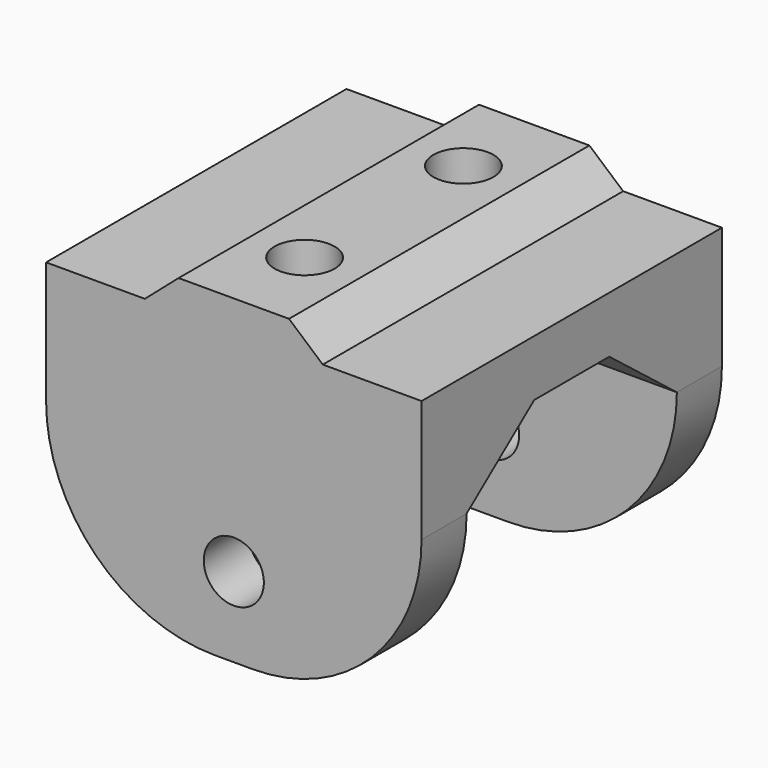
from build123d import *

# Parameters (mm, degrees)
SKETCH_W        = 20
SKETCH_H        = 20
SKETCH_R        = 1.6
PAD_DEPTH       = 3
PAD001_DEPTH    = 20
SKETCH002_R     = 1.6
POCKET_DEPTH    = 4.561
SKETCH003_W     = 20
SKETCH003_H     = 3
PAD002_DEPTH    = 12.5
SKETCH004_R     = 2.75
POCKET001_DEPTH = 5
SKETCH005_R     = 1.6
POCKET002_DEPTH = 20.001
FILLET_R        = 9
SKETCH006_W     = 5.5
SKETCH006_H     = 4.5
PAD003_DEPTH    = 3.5
POCKET003_DEPTH = 20.001


with BuildPart() as part:
    # Sketch → Pad (new body)
    with BuildSketch(Plane.XY):
        Rectangle(SKETCH_W, SKETCH_H)
        with Locations((0, -5.286)):
            Circle(SKETCH_R, mode=Mode.SUBTRACT)
        with Locations((0, 5.286)):
            Circle(SKETCH_R, mode=Mode.SUBTRACT)
    extrude(amount=PAD_DEPTH)

    # Sketch001 (on Face1 of Pad) → Pad001 (join)
    with BuildSketch(Plane(origin=(0, 10, 0), x_dir=(-1, 0, 0), z_dir=(0, 1, 0))):
        Polygon((0, 3), (-4.74, 3), (-2.94, 4.56), (2.94, 4.56), (4.74, 3), align=None)
    extrude(amount=-PAD001_DEPTH)

    # Sketch002 (on Face4 of Pad001) → Pocket (cut, through all)
    with BuildSketch(Plane(origin=(0, 0, 0), x_dir=(1, 0, 0), z_dir=(0, 0, -1))):
        with Locations((0, 5.286)):
            Circle(SKETCH002_R)
        with Locations((0, -5.286)):
            Circle(SKETCH002_R)
    extrude(amount=-POCKET_DEPTH, mode=Mode.SUBTRACT)

    # Sketch003 (on Face4 of Pocket) → Pad002 (join)
    with BuildSketch(Plane(origin=(0, 0, 0), x_dir=(1, 0, 0), z_dir=(0, 0, -1))):
        with Locations((0, 8.5)):
            Rectangle(SKETCH003_W, SKETCH003_H)
        with Locations((0, -8.5)):
            Rectangle(SKETCH003_W, SKETCH003_H)
    extrude(amount=PAD002_DEPTH)

    # Sketch004 (on Face10 of Pad002) → Pocket001 (cut)
    with BuildSketch(Plane(origin=(0, 0, 0), x_dir=(1, 0, 0), z_dir=(0, 0, -1))):
        with Locations((0, 5.286)):
            Circle(SKETCH004_R)
        with Locations((0, -5.286)):
            Circle(SKETCH004_R)
    extrude(amount=POCKET001_DEPTH, mode=Mode.SUBTRACT)

    # Sketch005 (on Face4 of Pocket001) → Pocket002 (cut, through all)
    with BuildSketch(Plane(origin=(0, 10, 0), x_dir=(-1, 0, 0), z_dir=(0, 1, 0))):
        with Locations((0, -8.25)):
            Circle(SKETCH005_R)
    extrude(amount=-POCKET002_DEPTH, mode=Mode.SUBTRACT)

    # Fillet
    fillet_edges = [part.edges().sort_by_distance(p)[0] for p in [
        (10, 8.5, -12.5),
        (-10, 8.5, -12.5),
        (10, -8.5, -12.5),
        (-10, -8.5, -12.5),
    ]]
    fillet(fillet_edges, radius=FILLET_R)

    # Sketch006 (on Face15 of Fillet) → Pad003 (join)
    with BuildSketch(Plane(origin=(0, 0, 0), x_dir=(1, 0, 0), z_dir=(0, 0, -1))):
        with Locations((-7.25, 4.75)):
            Rectangle(SKETCH006_W, SKETCH006_H)
        with Locations((-7.25, -4.75)):
            Rectangle(SKETCH006_W, SKETCH006_H)
        with Locations((7.25, 4.75)):
            Rectangle(SKETCH006_W, SKETCH006_H)
        with Locations((7.25, -4.75)):
            Rectangle(SKETCH006_W, SKETCH006_H)
    extrude(amount=PAD003_DEPTH)

    # Sketch007 (on Face9 of Pad003) → Pocket003 (cut, through all)
    with BuildSketch(Plane.YZ.offset(10)):
        Polygon((-2.5, 0), (-2.5, -3.5), (-7, -3.5), align=None)
        Polygon((7, -3.5), (2.5, -3.5), (2.5, 0), align=None)
    extrude(amount=-POCKET003_DEPTH, mode=Mode.SUBTRACT)


solid = part.part
